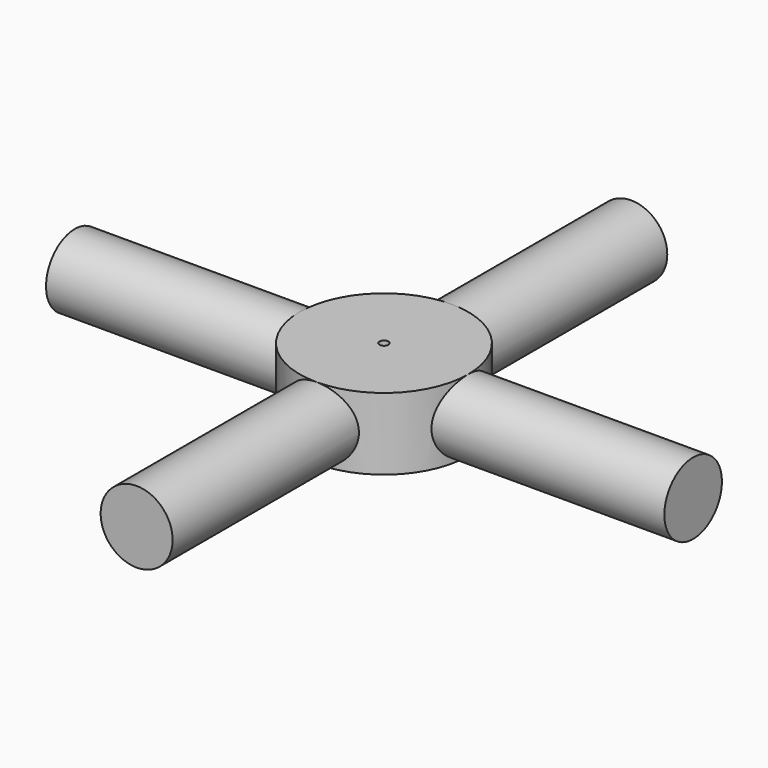
from build123d import *

# Parameters (mm, degrees)
F0_R     = 9.525
F1_DEPTH = 4.064
F2_R     = 4.064
F3_DEPTH = 34.925
F4_R     = 4.064
F5_DEPTH = 34.925
F6_R     = 0.508
F7_DEPTH = 5.08


with BuildPart() as f1:
    # F0 (on Top) → F1 (new body, symmetric)
    with BuildSketch(Plane.XY):
        Circle(F0_R)
    extrude(amount=F1_DEPTH, both=True)

    # F2 (on Right) → F3 (join, symmetric)
    with BuildSketch(Plane.YZ):
        Circle(F2_R)
    extrude(amount=F3_DEPTH, both=True)

    # F4 (on Front) → F5 (join, symmetric)
    with BuildSketch(Plane.XZ):
        Circle(F4_R)
    extrude(amount=F5_DEPTH, both=True)

    # F6 (on face) → F7 (cut)
    with BuildSketch(Plane.XY.offset(4.064)):
        Circle(F6_R)
    extrude(amount=-F7_DEPTH, mode=Mode.SUBTRACT)


solid = f1.part
